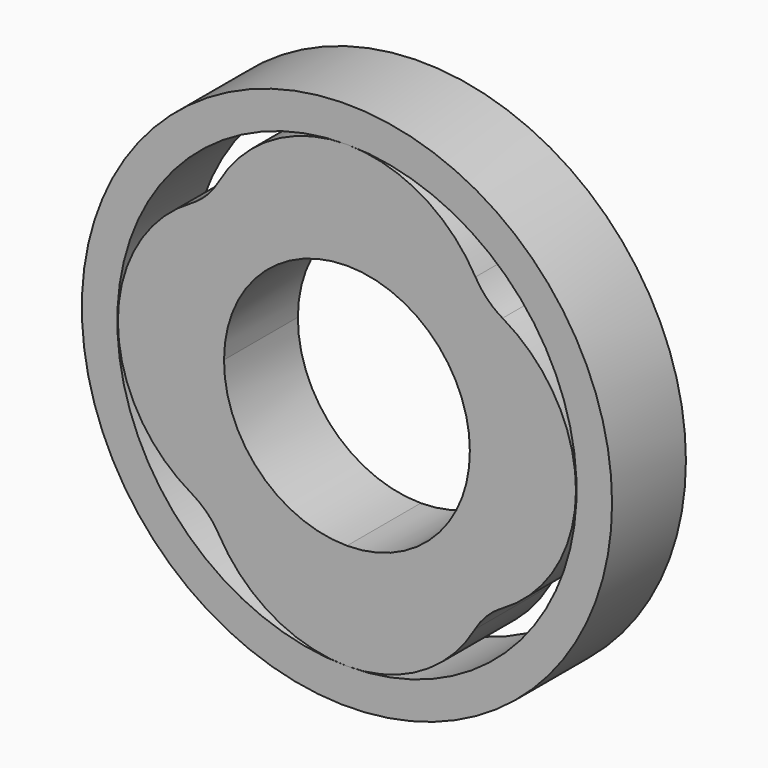
from build123d import *

# Parameters (mm, degrees)
F1_DEPTH = 25
F2_R     = 20
F3_R     = 71.7996081042
F3_R_2   = 62.1840589354
F4_DEPTH = 25


with BuildPart() as f1:
    # F0 (on Front) → F1 (new body)
    with BuildSketch(Plane.XZ):
        with BuildLine():
            ThreePointArc((37.0915824755, -37.1578530257), (39.7917054819, -18.10727407), (33.2846440443, 0))
            ThreePointArc((33.2846440443, 0), (23.6075322928, -23.6666891703), (0, -33.4872333087))
            ThreePointArc((0, -33.4872333087), (18.0921230956, -39.9068560653), (37.0915824755, -37.1578530257))
        make_face()
        with BuildLine():
            ThreePointArc((0, 33.2846440443), (23.5357975131, 23.5357975131), (33.2846440443, 0))
            ThreePointArc((33.2846440443, 0), (39.7782077768, 17.977613159), (37.1883942733, 36.915770695))
            ThreePointArc((37.1883942733, 36.915770695), (18.1441509794, 39.7093812016), (0, 33.2846440443))
        make_face()
        with BuildLine():
            ThreePointArc((37.1883942733, 36.915770695), (39.7782077768, 17.977613159), (33.2846440443, 0))
            ThreePointArc((33.2846440443, 0), (39.7917054819, -18.10727407), (37.0915824755, -37.1578530257))
            ThreePointArc((37.0915824755, -37.1578530257), (62.0312866935, -0.1535732762), (37.1883942733, 36.915770695))
        make_face()
        with BuildLine():
            ThreePointArc((-37.1883942733, 36.915770695), (-18.1441509794, 39.7093812016), (0, 33.2846440443))
            ThreePointArc((0, 33.2846440443), (18.1441509794, 39.7093812016), (37.1883942733, 36.915770695))
            ThreePointArc((37.1883942733, 36.915770695), (0, 62.1840589354), (-37.1883942733, 36.915770695))
        make_face()
        with BuildLine():
            ThreePointArc((-33.2846440443, 0), (-23.5357975131, 23.5357975131), (0, 33.2846440443))
            ThreePointArc((0, 33.2846440443), (-18.1441509794, 39.7093812016), (-37.1883942733, 36.915770695))
            ThreePointArc((-37.1883942733, 36.915770695), (-39.7782077768, 17.977613159), (-33.2846440443, 0))
        make_face()
        with BuildLine():
            ThreePointArc((-37.0915824755, -37.1578530257), (-18.0921230956, -39.9068560653), (0, -33.4872333087))
            ThreePointArc((0, -33.4872333087), (-23.6075322928, -23.6666891703), (-33.2846440443, 0))
            ThreePointArc((-33.2846440443, 0), (-39.7917054819, -18.10727407), (-37.0915824755, -37.1578530257))
        make_face()
        with BuildLine():
            ThreePointArc((37.0915824755, -37.1578530257), (18.0921230956, -39.9068560653), (0, -33.4872333087))
            ThreePointArc((0, -33.4872333087), (-18.0921230956, -39.9068560653), (-37.0915824755, -37.1578530257))
            ThreePointArc((-37.0915824755, -37.1578530257), (0, -62.1840589354), (37.0915824755, -37.1578530257))
        make_face()
        with BuildLine():
            ThreePointArc((-37.0915824755, -37.1578530257), (-39.7917054819, -18.10727407), (-33.2846440443, 0))
            ThreePointArc((-33.2846440443, 0), (-39.7782077768, 17.977613159), (-37.1883942733, 36.915770695))
            ThreePointArc((-37.1883942733, 36.915770695), (-62.0312866935, -0.1535732762), (-37.0915824755, -37.1578530257))
        make_face()
    extrude(amount=F1_DEPTH)

    # F2
    f2_edges = [f1.edges().sort_by_distance(p)[0] for p in [
        (-37.188394, -12.5, 36.915771),
        (37.188394, -12.5, 36.915771),
        (37.091582, -12.5, -37.157853),
        (-37.091582, -12.5, -37.157853),
    ]]
    fillet(f2_edges, radius=F2_R)

    # F3 (on Front) → F4 (join)
    with BuildSketch(Plane.XZ):
        Circle(F3_R)
        Circle(F3_R_2, mode=Mode.SUBTRACT)
    extrude(amount=F4_DEPTH)


solid = f1.part
